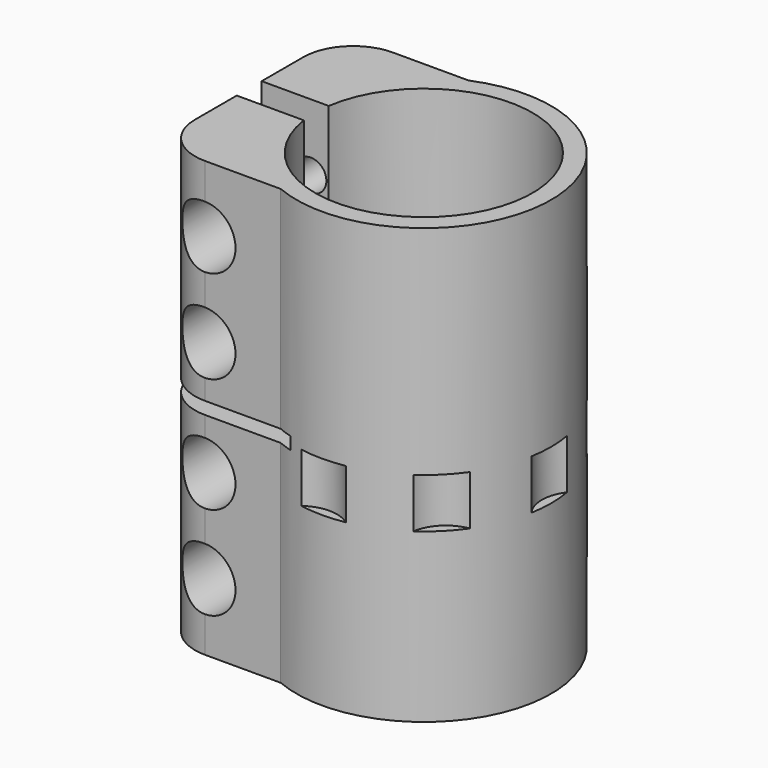
from build123d import *

# Parameters (mm, degrees)
F1_DEPTH       = 35
F3_D           = 5
F3_START       = 1.8205079
F3_CBORE_D     = 10
F3_CBORE_DEPTH = 8
F4_W           = 22.4
F4_H           = 2
F5_DEPTH       = 25
F6_R           = 6
F7_DEPTH       = 8


with BuildPart() as f1:
    # F0 (on Top) → F1 (new body, symmetric)
    with BuildSketch(Plane.XY):
        with BuildLine():
            Line((-20.1192642082, -18.9086026559), (-7.9192642082, -18.9086026559))
            ThreePointArc((-7.9192642082, -18.9086026559), (20.5, 0), (-7.9192642082, 18.9086026559))
            Line((-7.9192642082, 18.9086026559), (-20.1192642082, 18.9086026559))
            ThreePointArc((-20.1192642082, 18.9086026559), (-25.7761184577, 16.5654569054), (-28.1192642082, 10.9086026559))
            Line((-28.1192642082, 10.9086026559), (-28.1192642082, 2.5086026559))
            Line((-28.1192642082, 2.5086026559), (-17.3192642082, 2.5086026559))
            ThreePointArc((-17.3192642082, 2.5086026559), (17.5, 0), (-17.3192642082, -2.5086026559))
            Line((-17.3192642082, -2.5086026559), (-28.1192642082, -2.5086026559))
            Line((-28.1192642082, -2.5086026559), (-28.1192642082, -10.9086026559))
            ThreePointArc((-28.1192642082, -10.9086026559), (-25.7761184577, -16.5654569054), (-20.1192642082, -18.9086026559))
        make_face()
    extrude(amount=F1_DEPTH, both=True)

    # F3 (through all)
    # its depths count from where the whole tool has entered the part; down to there all is cleared
    with Locations(Plane.XZ.offset(18.9086026559).offset(-F3_START)):
        with Locations((-20.2, -24.25), (-20.2, -9.25), (-20.2, 9.25), (-20.2, 24.25)):
            CounterBoreHole(F3_D / 2, F3_CBORE_D / 2, F3_CBORE_DEPTH)

    # F4 (on Front) → F5 (cut, symmetric)
    with BuildSketch(Plane.XZ):
        with Locations((-16.9192642082, 0)):
            Rectangle(F4_W, F4_H)
    extrude(amount=F5_DEPTH, both=True, mode=Mode.SUBTRACT)

    # F6 (on Top) → F7 (cut)
    with BuildSketch(Plane.XY):
        with Locations((0, -25)):
            Circle(F6_R)
        with Locations((17.6776695297, -17.6776695297)):
            Circle(F6_R)
        with Locations((25, 0)):
            Circle(F6_R)
        with Locations((17.6776695297, 17.6776695297)):
            Circle(F6_R)
        with Locations((0, 25)):
            Circle(F6_R)
    extrude(amount=-F7_DEPTH, mode=Mode.SUBTRACT)


solid = f1.part
